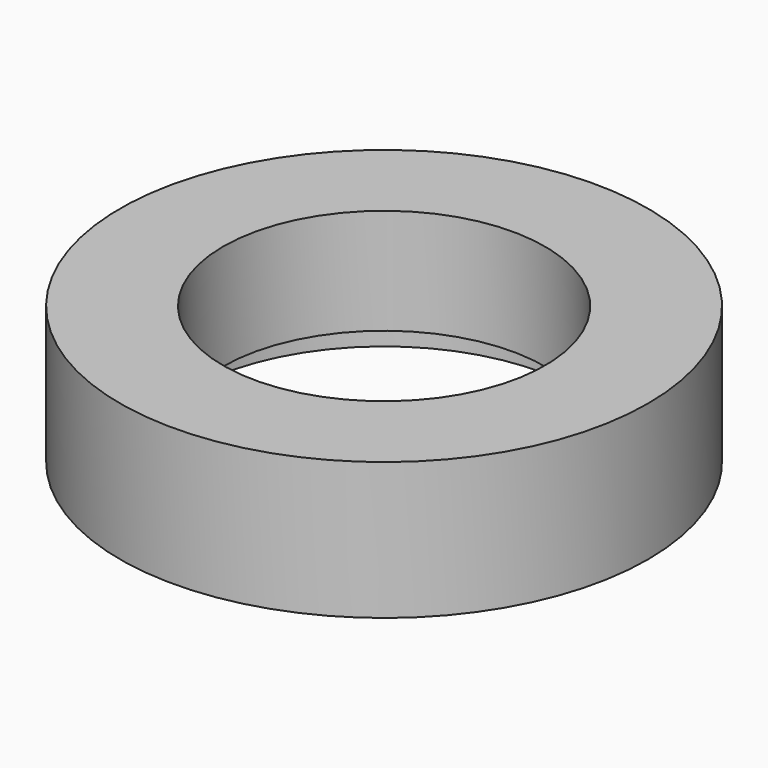
from build123d import *

# Parameters (mm, degrees)
F0_R           = 5
F1_DEPTH       = 2.6
F2_D           = 6.1
F2_DEPTH       = 3
F2_CBORE_D     = 7.4
F2_CBORE_DEPTH = 0.6
F2_TIP         = 1.832624888


with BuildPart() as f1:
    # F0 (on Top) → F1 (new body)
    with BuildSketch(Plane.XY):
        with Locations((-4.4168601744, 6.8323677406)):
            Circle(F0_R)
    extrude(amount=F1_DEPTH)

    # F2
    with Locations(Plane(origin=(0, 0, 0), x_dir=(1, 0, 0), z_dir=(0, 0, -1))):
        with Locations((-4.4168601744, -6.8323677406)):
            CounterBoreHole(F2_D / 2, F2_CBORE_D / 2, F2_CBORE_DEPTH, depth=F2_DEPTH)
            with Locations((0, 0, -(F2_DEPTH + F2_TIP / 2))):  # 118° drill point
                Cone(0, F2_D / 2, F2_TIP, mode=Mode.SUBTRACT)


solid = f1.part
